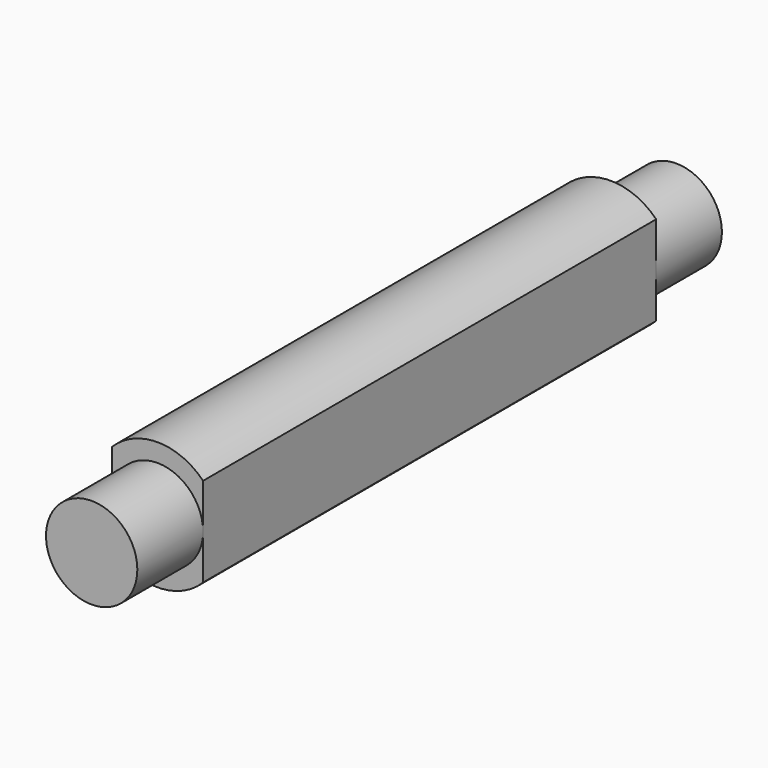
from build123d import *

# Parameters (mm, degrees)
F1_DEPTH = 7.75
F2_R     = 1.25
F3_DEPTH = 10


with BuildPart() as f1:
    # F0 (on Front) → F1 (new body, symmetric)
    with BuildSketch(Plane.XZ):
        with BuildLine():
            Line((-1.25, 1.224745), (-1.25, -1.224745))
            ThreePointArc((-1.25, -1.224745), (0, -1.75), (1.25, -1.224745))
            Line((1.25, -1.224745), (1.25, 1.224745))
            ThreePointArc((1.25, 1.224745), (0, 1.75), (-1.25, 1.224745))
        make_face()
    extrude(amount=F1_DEPTH, both=True)

    # F2 (on Front) → F3 (join, symmetric)
    with BuildSketch(Plane.XZ):
        Circle(F2_R)
    extrude(amount=F3_DEPTH, both=True)


solid = f1.part
